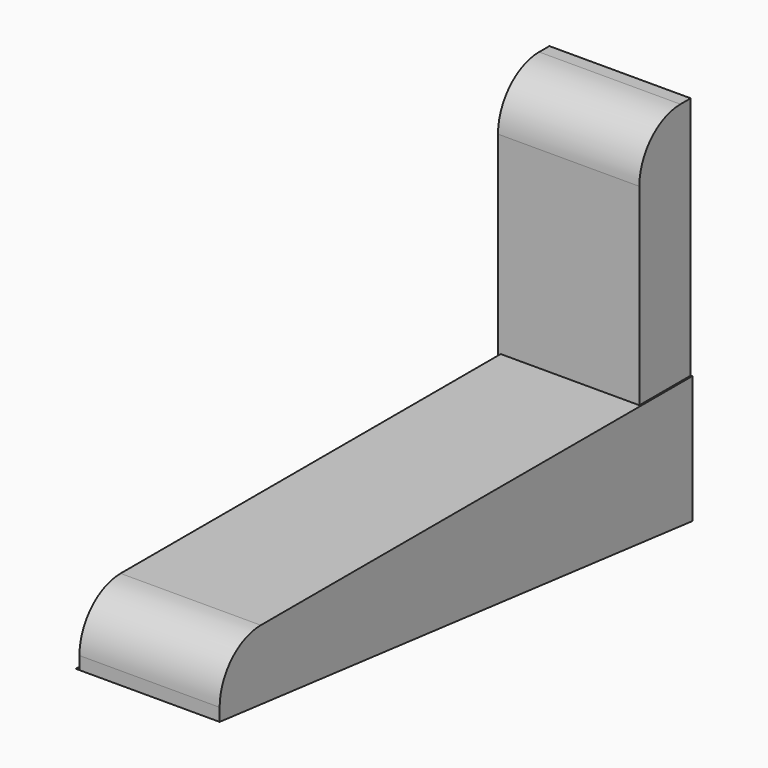
from build123d import *

# Parameters (mm, degrees)
F1_W     = 13.8574047014
F1_H     = 58.3990514278
F2_DEPTH = 6.35
F0_W     = 13.97
F0_H     = 30.48
F3_DEPTH = 6.35
F4_R     = 5.08
F6_DEPTH = 14.224


with BuildPart() as f2:
    # F1 (on Top) → F2 (new body)
    with BuildSketch(Plane.XY):
        with Locations((-15.3421224095, -29.1995257139)):
            Rectangle(F1_W, F1_H)
    extrude(amount=F2_DEPTH)

    # F0 (on Front) → F3 (join)
    with BuildSketch(Plane.XZ):
        with Locations((-15.5518442771, 15.24)):
            Rectangle(F0_W, F0_H)
    extrude(amount=F3_DEPTH)

    # F4
    f4_edges = [f2.edges().sort_by_distance(p)[0] for p in [
        (-15.342122, -58.399051, 6.35),
        (-15.551844, -6.35, 30.48),
    ]]
    fillet(f4_edges, radius=F4_R)

    # F5 (on face) → F6 (join)
    with BuildSketch(Plane.YZ.offset(-8.4134200588)):
        Polygon((0, 0), (-58.3990514278, 0), (0, -6.2688249163), align=None)
    extrude(amount=-F6_DEPTH)


solid = f2.part
